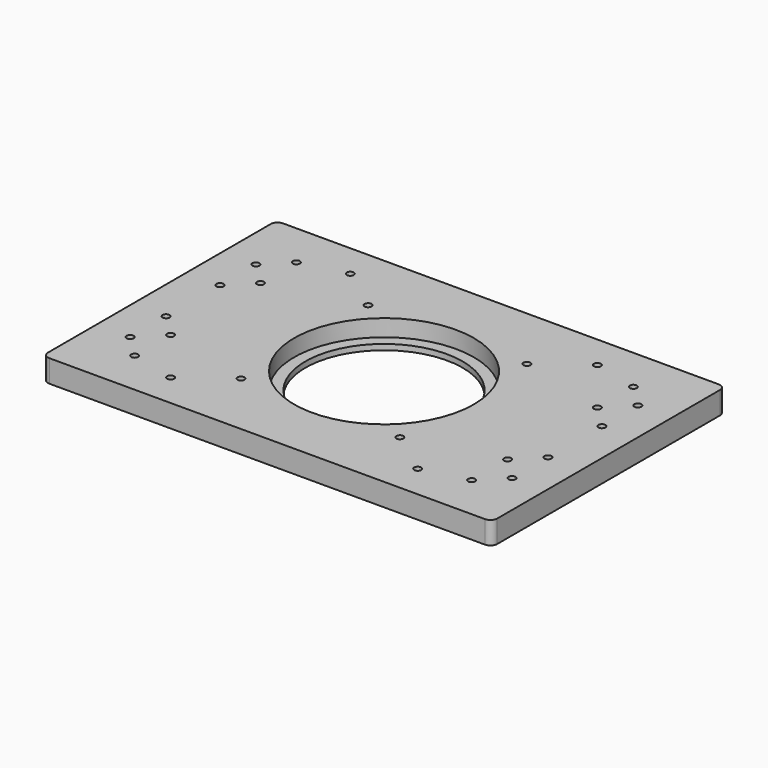
from build123d import *

# Parameters (mm, degrees)
SKETCH_W     = 200
SKETCH_H     = 130
SKETCH_R     = 35
SKETCH_R_2   = 1.5625
PAD_DEPTH    = 10
SKETCH001_R  = 40
POCKET_DEPTH = 7.5
FILLET_R     = 3


with BuildPart() as part:
    # Sketch → Pad (new body)
    with BuildSketch(Plane.XY):
        with Locations((100, 65)):
            Rectangle(SKETCH_W, SKETCH_H)
        with Locations((100, 65)):
            Circle(SKETCH_R, mode=Mode.SUBTRACT)
        with Locations((45, 115)):
            Circle(SKETCH_R_2, mode=Mode.SUBTRACT)
        with Locations((45, 15)):
            Circle(SKETCH_R_2, mode=Mode.SUBTRACT)
        with Locations((155, 115)):
            Circle(SKETCH_R_2, mode=Mode.SUBTRACT)
        with Locations((155, 15)):
            Circle(SKETCH_R_2, mode=Mode.SUBTRACT)
        with Locations((185, 30)):
            Circle(SKETCH_R_2, mode=Mode.SUBTRACT)
        with Locations((135.353085, 100.338453)):
            Circle(SKETCH_R_2, mode=Mode.SUBTRACT)
        with Locations((64.627773, 29.642413)):
            Circle(SKETCH_R_2, mode=Mode.SUBTRACT)
        with Locations((64.64463, 100.35537)):
            Circle(SKETCH_R_2, mode=Mode.SUBTRACT)
        with Locations((135.352442, 29.63292)):
            Circle(SKETCH_R_2, mode=Mode.SUBTRACT)
        with Locations((175, 20)):
            Circle(SKETCH_R_2, mode=Mode.SUBTRACT)
        with Locations((175, 40)):
            Circle(SKETCH_R_2, mode=Mode.SUBTRACT)
        with Locations((185, 50)):
            Circle(SKETCH_R_2, mode=Mode.SUBTRACT)
        with Locations((175, 90)):
            Circle(SKETCH_R_2, mode=Mode.SUBTRACT)
        with Locations((175, 110)):
            Circle(SKETCH_R_2, mode=Mode.SUBTRACT)
        with Locations((185, 80)):
            Circle(SKETCH_R_2, mode=Mode.SUBTRACT)
        with Locations((185, 100)):
            Circle(SKETCH_R_2, mode=Mode.SUBTRACT)
        with Locations((15, 30)):
            Circle(SKETCH_R_2, mode=Mode.SUBTRACT)
        with Locations((25, 20)):
            Circle(SKETCH_R_2, mode=Mode.SUBTRACT)
        with Locations((25, 40)):
            Circle(SKETCH_R_2, mode=Mode.SUBTRACT)
        with Locations((15, 50)):
            Circle(SKETCH_R_2, mode=Mode.SUBTRACT)
        with Locations((25, 90)):
            Circle(SKETCH_R_2, mode=Mode.SUBTRACT)
        with Locations((25, 110)):
            Circle(SKETCH_R_2, mode=Mode.SUBTRACT)
        with Locations((15, 80)):
            Circle(SKETCH_R_2, mode=Mode.SUBTRACT)
        with Locations((15, 100)):
            Circle(SKETCH_R_2, mode=Mode.SUBTRACT)
    extrude(amount=PAD_DEPTH)

    # Sketch001 (on Face31 of Pad) → Pocket (cut)
    with BuildSketch(Plane.XY.offset(10)):
        with Locations((100, 65)):
            Circle(SKETCH001_R)
    extrude(amount=-POCKET_DEPTH, mode=Mode.SUBTRACT)

    # Fillet
    fillet_edges = [part.edges().sort_by_distance(p)[0] for p in [
        (200, 0, 5),
        (200, 130, 5),
        (0, 0, 5),
        (0, 130, 5),
    ]]
    fillet(fillet_edges, radius=FILLET_R)


solid = part.part
